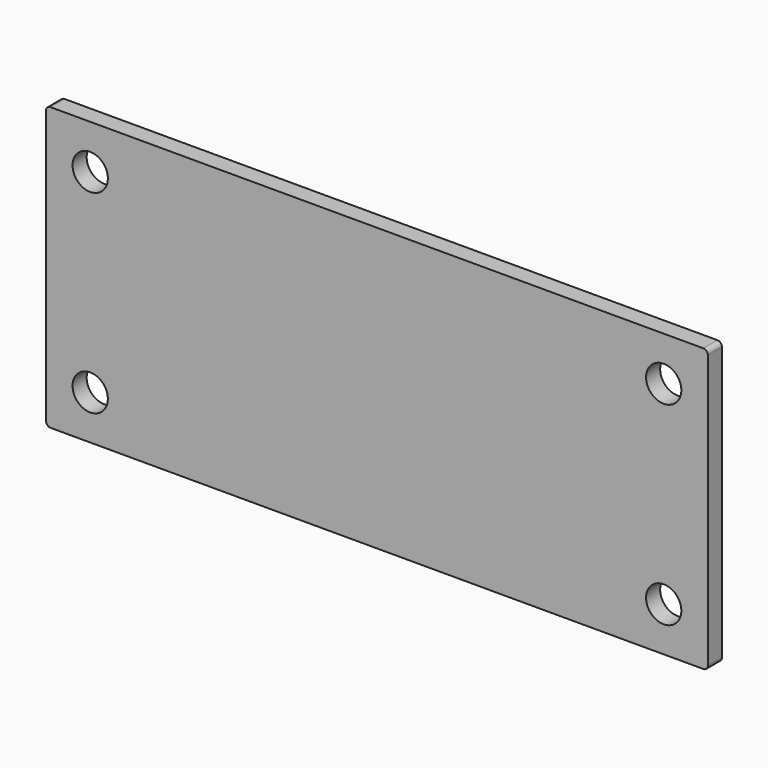
from build123d import *

# Parameters (mm, degrees)
F0_W     = 75
F0_H     = 32
F1_DEPTH = 1
F2_R     = 2
F3_DEPTH = 25.4
F4_R     = 0.5


with BuildPart() as f1:
    # F0 (on Front) → F1 (new body, symmetric)
    with BuildSketch(Plane.XZ):
        Rectangle(F0_W, F0_H)
    extrude(amount=F1_DEPTH, both=True)

    # F2 (on face) → F3 (cut)
    with BuildSketch(Plane.XZ.offset(1)):
        with Locations((-32.5, 11)):
            Circle(F2_R)
        with Locations((-32.5, -11)):
            Circle(F2_R)
        with Locations((32.5, -11)):
            Circle(F2_R)
        with Locations((32.5, 11)):
            Circle(F2_R)
    extrude(amount=-F3_DEPTH, mode=Mode.SUBTRACT)

    # F4
    f4_edges = [f1.edges().sort_by_distance(p)[0] for p in [
        (37.5, 0, 16),
        (37.5, 0, -16),
        (-37.5, 0, 16),
        (-37.5, 0, -16),
    ]]
    fillet(f4_edges, radius=F4_R)


solid = f1.part
